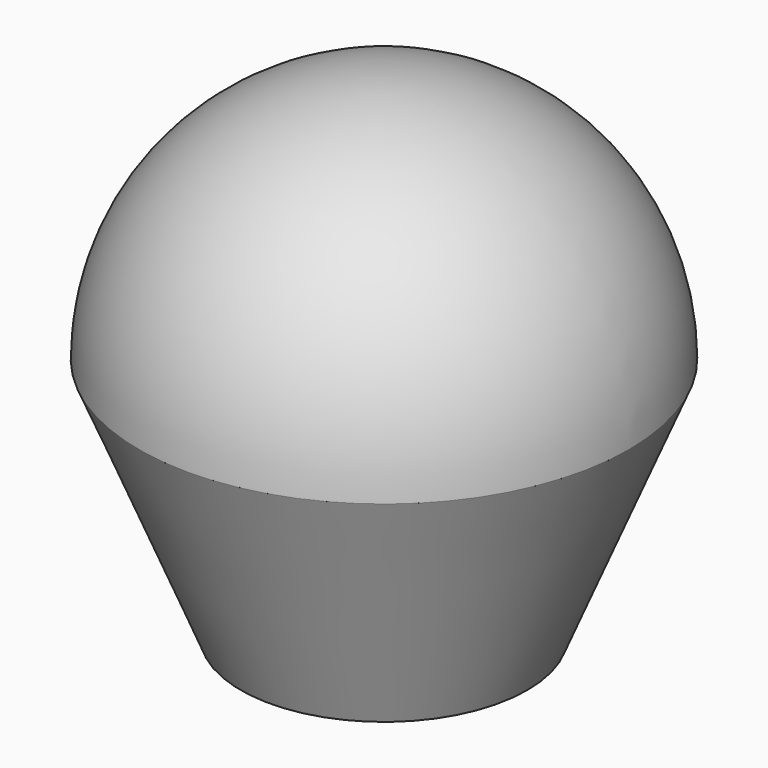
from build123d import *

# Parameters (mm, degrees)
F0_R     = 10
F1_DEPTH = 10
F1_TAPER = 22.5
F4_T     = -0.4


with BuildPart() as f1:
    # F0 (on Top) → F1 (new body)
    with BuildSketch(Plane.XY):
        Circle(F0_R)
    extrude(amount=-F1_DEPTH, taper=F1_TAPER)

    # F2 (on Front) → F3 (revolve)
    with BuildSketch(Plane.XZ):
        with BuildLine():
            Line((0, 10), (0, 0))
            Line((0, 0), (10, 0))
            ThreePointArc((10, 0), (7.0710678119, 7.0710678119), (0, 10))
        make_face()
    revolve(axis=Axis((0, 0, -10), (0, 0, 1)))

    # F4
    f4_openings = [f1.faces().sort_by_distance(p)[0] for p in [
        (0, 0, -10),
    ]]
    offset(amount=F4_T, openings=f4_openings, kind=Kind.INTERSECTION)


solid = f1.part
